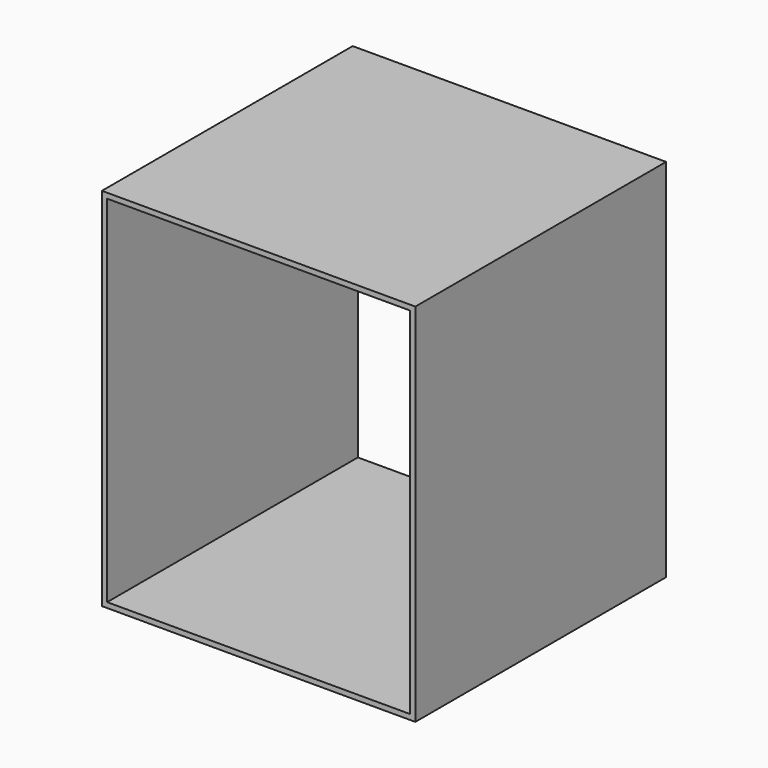
from build123d import *

# Parameters (mm, degrees)
F0_W     = 600
F0_H     = 700
F0_W_2   = 580
F0_H_2   = 680
F1_DEPTH = 600


with BuildPart() as f1:
    # F0 (on Front) → F1 (new body)
    with BuildSketch(Plane.XZ):
        with Locations((204.436533, 249.6567)):
            Rectangle(F0_W, F0_H)
        with Locations((204.436533, 249.6567)):
            Rectangle(F0_W_2, F0_H_2, mode=Mode.SUBTRACT)
    extrude(amount=-F1_DEPTH)


solid = f1.part
